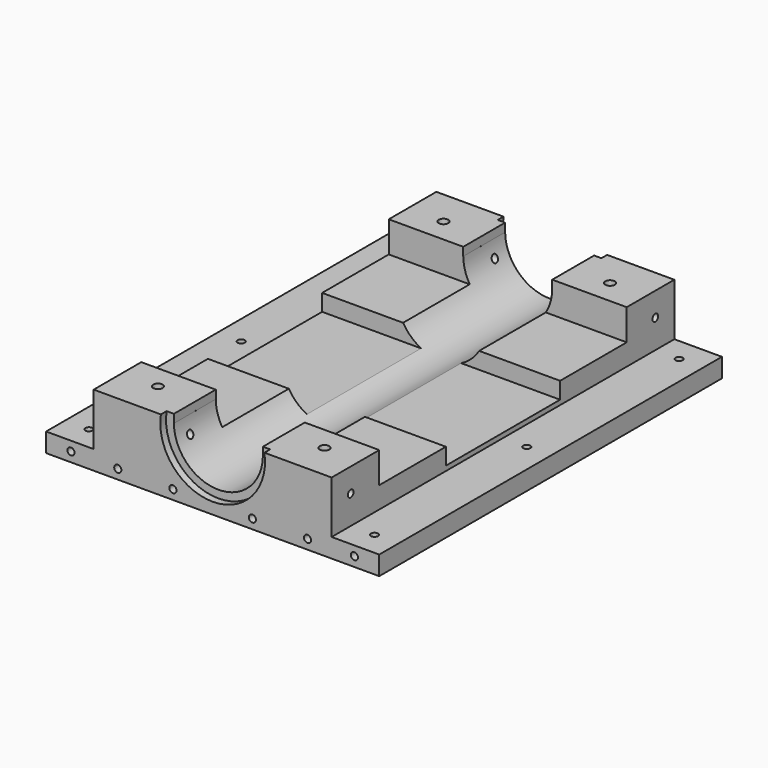
from build123d import *

# Parameters (mm, degrees)
SKETCH_W        = 100
SKETCH_H        = 180
PAD_DEPTH       = 30
SKETCH001_R     = 18.7
POCKET_DEPTH    = 180.0010000003
SKETCH002_W     = 37.4
SKETCH002_H     = 3.534863
POCKET001_DEPTH = 180.0010000003
SKETCH003_W     = 180
SKETCH003_H     = 8
PAD001_DEPTH    = 20
SKETCH004_W     = 180
SKETCH004_H     = 8
PAD002_DEPTH    = 20
SKETCH005_R     = 1.5
POCKET002_DEPTH = 8.001
SKETCH006_R     = 1.5
POCKET003_DEPTH = 120.001
SKETCH007_R     = 1.5
POCKET004_DEPTH = 180.0010001003
SKETCH008_W     = 130
SKETCH008_H     = 13
POCKET005_DEPTH = 400
SKETCH009_R     = 22
POCKET006_DEPTH = 3
SKETCH010_R     = 22
POCKET007_DEPTH = 3
SKETCH011_W     = 60
SKETCH011_H     = 7
POCKET008_DEPTH = 120
SKETCH012_R     = 2
POCKET009_DEPTH = 30.0010001


with BuildPart() as part:
    # Sketch → Pad (new body)
    with BuildSketch(Plane.XY):
        Rectangle(SKETCH_W, SKETCH_H)
    extrude(amount=PAD_DEPTH)

    # Sketch001 → Pocket (cut, through all)
    with BuildSketch(Plane.XZ.offset(90)):
        with Locations((0, 26.7)):
            Circle(SKETCH001_R)
    extrude(amount=-POCKET_DEPTH, mode=Mode.SUBTRACT)

    # Sketch002 → Pocket001 (cut, through all)
    with BuildSketch(Plane.XZ.offset(90)):
        with Locations((0, 28.2325685)):
            Rectangle(SKETCH002_W, SKETCH002_H)
    extrude(amount=-POCKET001_DEPTH, mode=Mode.SUBTRACT)

    # Sketch003 → Pad001 (new body)
    with BuildSketch(Plane(origin=(-50, 0, 0), x_dir=(0, -1, 0), z_dir=(-1, 0, 0))):
        with Locations((0, 4)):
            Rectangle(SKETCH003_W, SKETCH003_H)
    extrude(amount=PAD001_DEPTH)

    # Sketch004 → Pad002 (new body)
    with BuildSketch(Plane.YZ.offset(50)):
        with Locations((0, 4)):
            Rectangle(SKETCH004_W, SKETCH004_H)
    extrude(amount=PAD002_DEPTH)

    # Sketch005 → Pocket002 (cut, through all)
    with BuildSketch(Plane.XY.offset(8)):
        with Locations((-60, 80)):
            Circle(SKETCH005_R)
        with Locations((60, 80)):
            Circle(SKETCH005_R)
        with Locations((-60, -80)):
            Circle(SKETCH005_R)
        with Locations((60, -80)):
            Circle(SKETCH005_R)
        with Locations((60, 0)):
            Circle(SKETCH005_R)
        with Locations((-60, 0)):
            Circle(SKETCH005_R)
    extrude(amount=-POCKET002_DEPTH, mode=Mode.SUBTRACT)

    # Sketch006 → Pocket003 (cut, through all)
    with BuildSketch(Plane.YZ.offset(50)):
        with Locations((-80, 20)):
            Circle(SKETCH006_R)
        with Locations((0, 20)):
            Circle(SKETCH006_R)
        with Locations((80, 20)):
            Circle(SKETCH006_R)
    extrude(amount=-POCKET003_DEPTH, mode=Mode.SUBTRACT)

    # Sketch007 → Pocket004 (cut, through all)
    with BuildSketch(Plane(origin=(0, 90, 0), x_dir=(-1, 0, 0), z_dir=(0, 1, 0))):
        with Locations((-39.8613268753, 4)):
            Circle(SKETCH007_R)
        with Locations((-16.6962588038, 4)):
            Circle(SKETCH007_R)
        with Locations((16.6962588038, 4)):
            Circle(SKETCH007_R)
        with Locations((39.8613268753, 4)):
            Circle(SKETCH007_R)
        with Locations((59.5531621299, 4)):
            Circle(SKETCH007_R)
        with Locations((-59.5531621299, 4)):
            Circle(SKETCH007_R)
    extrude(amount=-POCKET004_DEPTH, mode=Mode.SUBTRACT)

    # Sketch008 → Pocket005 (cut)
    with BuildSketch(Plane(origin=(-50, 0, 0), x_dir=(0, -1, 0), z_dir=(-1, 0, 0))):
        with Locations((0, 23.5)):
            Rectangle(SKETCH008_W, SKETCH008_H)
    extrude(amount=-POCKET005_DEPTH, mode=Mode.SUBTRACT)

    # Sketch009 → Pocket006 (cut)
    with BuildSketch(Plane.XZ.offset(90)):
        with Locations((0, 26.782612)):
            Circle(SKETCH009_R)
    extrude(amount=-POCKET006_DEPTH, mode=Mode.SUBTRACT)

    # Sketch010 → Pocket007 (cut)
    with BuildSketch(Plane(origin=(0, 90, 0), x_dir=(-1, 0, 0), z_dir=(0, 1, 0))):
        with Locations((0, 26.850603)):
            Circle(SKETCH010_R)
    extrude(amount=-POCKET007_DEPTH, mode=Mode.SUBTRACT)

    # Sketch011 → Pocket008 (cut)
    with BuildSketch(Plane.YZ.offset(50)):
        with Locations((0, 13.5)):
            Rectangle(SKETCH011_W, SKETCH011_H)
    extrude(amount=-POCKET008_DEPTH, mode=Mode.SUBTRACT)

    # Sketch012 → Pocket009 (cut, through all)
    with BuildSketch(Plane.XY.offset(30)):
        with Locations((-35, 75)):
            Circle(SKETCH012_R)
        with Locations((35, 75)):
            Circle(SKETCH012_R)
        with Locations((-35, -75)):
            Circle(SKETCH012_R)
        with Locations((35, -75)):
            Circle(SKETCH012_R)
    extrude(amount=-POCKET009_DEPTH, mode=Mode.SUBTRACT)


solid = part.part
